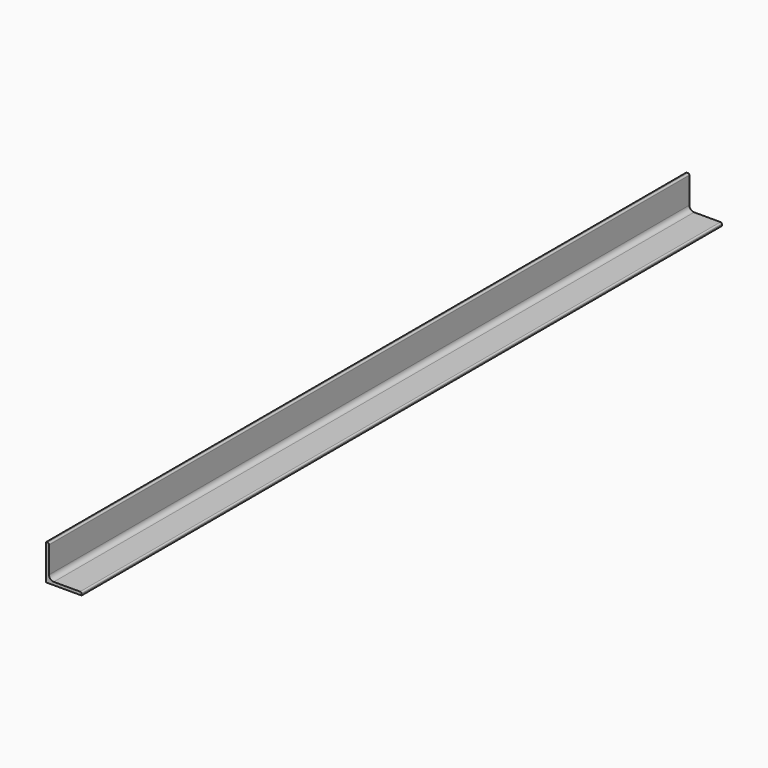
from build123d import *

# Parameters (mm, degrees)
F1_DEPTH = 1352.5


with BuildPart() as f1:
    # F0 (on Front) → F1 (new body)
    with BuildSketch(Plane.XZ):
        with BuildLine():
            Line((0, 60), (0, 0))
            Line((0, 0), (60, 0))
            Line((60, 0), (60, 2.6))
            ThreePointArc((60, 2.6), (59.297056, 4.297056), (57.6, 5))
            Line((57.6, 5), (13, 5))
            ThreePointArc((13, 5), (7.343146, 7.343146), (5, 13))
            Line((5, 13), (5, 57.6))
            ThreePointArc((5, 57.6), (4.297056, 59.297056), (2.6, 60))
            Line((2.6, 60), (0, 60))
        make_face()
    extrude(amount=F1_DEPTH)


solid = f1.part
